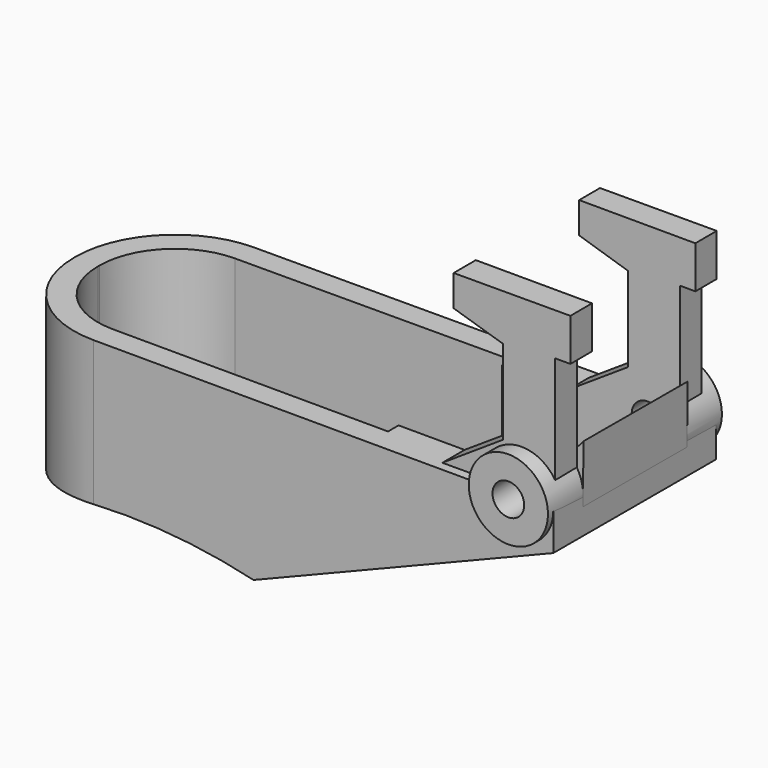
from build123d import *

# Parameters (mm, degrees)
F1_DEPTH  = 12
F3_DEPTH  = 25
F4_T      = -1.8
F5_R      = 5.7
F6_R      = 7.5
F8_R      = 3
F9_DEPTH  = 16.37
F10_R     = 1.2
F11_DEPTH = 16.3887303416
F14_DEPTH = 13.87
F17_DEPTH = 9.8
F19_DEPTH = 9.8


with BuildPart() as f1:
    # F0 (on Top) → F1 (new body)
    with BuildSketch(Plane.XY):
        Polygon((0, 15.12), (0, 0), (42.3, -0.125), (42.3, 15.245), align=None)
    extrude(amount=F1_DEPTH)

    # F2 (on face) → F3 (cut)
    with BuildSketch(Plane(origin=(0, 0, 0), x_dir=(0.9999956338, -0.0029550698, 0), z_dir=(-0.0029550698, -0.9999956338, 0))):
        Polygon((42.3001846923, 0), (42.3001846923, 9.2), (19.6, 0), align=None)
        with BuildLine():
            Line((0, 0), (19.6, 0))
            ThreePointArc((19.6, 0), (9.8, 1.15), (0, 0))
        make_face()
    extrude(amount=-F3_DEPTH, mode=Mode.SUBTRACT)

    # F4
    f4_openings = [f1.faces().sort_by_distance(p)[0] for p in [
        (21.207806, 7.56, 12),
    ]]
    offset(amount=F4_T, openings=f4_openings)

    # F5
    f5_edges = [f1.edges().sort_by_distance(p)[0] for p in [
        (1.8, 13.325311, 7.10578),
        (1.8, 1.794689, 7.108929),
    ]]
    fillet(f5_edges, radius=F5_R)

    # F6#2 (call 1 of 2: OpenCascade refuses the feature's edges together)
    f6_2_edges = [f1.edges().sort_by_distance(p)[0] for p in [
        (0, 0, 6),
    ]]
    fillet(f6_2_edges, radius=F6_R)

    # F6 (call 2 of 2)
    f6_edges = [f1.edges().sort_by_distance(p)[0] for p in [
        (0, 15.12, 6),
    ]]
    fillet(f6_edges, radius=F6_R)

    # F8 (on offset) → F9 (join)
    with BuildSketch(Plane(origin=(-0.0014775349, -0.4999978169, 0), x_dir=(0.9999956338, -0.0029550698, 0), z_dir=(-0.0029550698, -0.9999956338, 0))):
        with Locations((39.3001846923, 12)):
            Circle(F8_R)
    extrude(amount=-F9_DEPTH)

    # F10 (on face) → F11 (cut, through all)
    with BuildSketch(Plane(origin=(-0.0014775349, -0.4999978169, 0), x_dir=(0.9999956338, -0.0029550698, 0), z_dir=(-0.0029550698, -0.9999956338, 0))):
        with Locations((39.3001846923, 12)):
            Circle(F10_R)
    extrude(amount=-F11_DEPTH, mode=Mode.SUBTRACT)

    # F13 (on offset) → F14 (join)
    with BuildSketch(Plane(origin=(-0.0424641585, 14.3698712402, 0), x_dir=(-0.9999956338, -0.0029550698, 0), z_dir=(-0.0029550698, 0.9999956338, 0))):
        Polygon((-39.6163160442, 9.2177886928), (-28.3448653482, 5.1912576891), (-28.3448653482, 12), (-33.3448653482, 12), (-37.8970582696, 15), (-37.8970582696, 21.4), (-34.1948653482, 22.55), (-34.1948653482, 24.9), (-42.9948653482, 24.9), (-42.9948653482, 21.7), (-41.8448653482, 21.7), (-41.8448653482, 13.4442944811), (-36.9448653482, 13.4442944811), align=None)
    extrude(amount=-F14_DEPTH)

    # F16 (on offset) → F17 (cut)
    with BuildSketch(Plane(origin=(0.0082741956, 2.7999877746, 0), x_dir=(-0.9999956338, 0.0029550698, 0), z_dir=(0.0029550698, 0.9999956338, 0))):
        Polygon((-45.8104334942, 12.5648554603), (-19.4509569667, 1.8818065187), (-19.4509569667, 29.0965877719), (-45.8104334942, 29.0965877719), align=None)
    extrude(amount=F17_DEPTH, mode=Mode.SUBTRACT)

    # F18 (on face) → F19 (join, through all)
    with BuildSketch(Plane(origin=(0.0082741956, 2.7999877746, 0), x_dir=(-0.9999956338, 0.0029550698, 0), z_dir=(0.0029550698, 0.9999956338, 0))):
        Polygon((-42.3346940311, 15.5157536155), (-42.2919104606, 11.1388577274), (-40.7162009106, 10.5002493611), (-40.7162009106, 13.6316680383), align=None)
    extrude(amount=F19_DEPTH)


solid = f1.part
